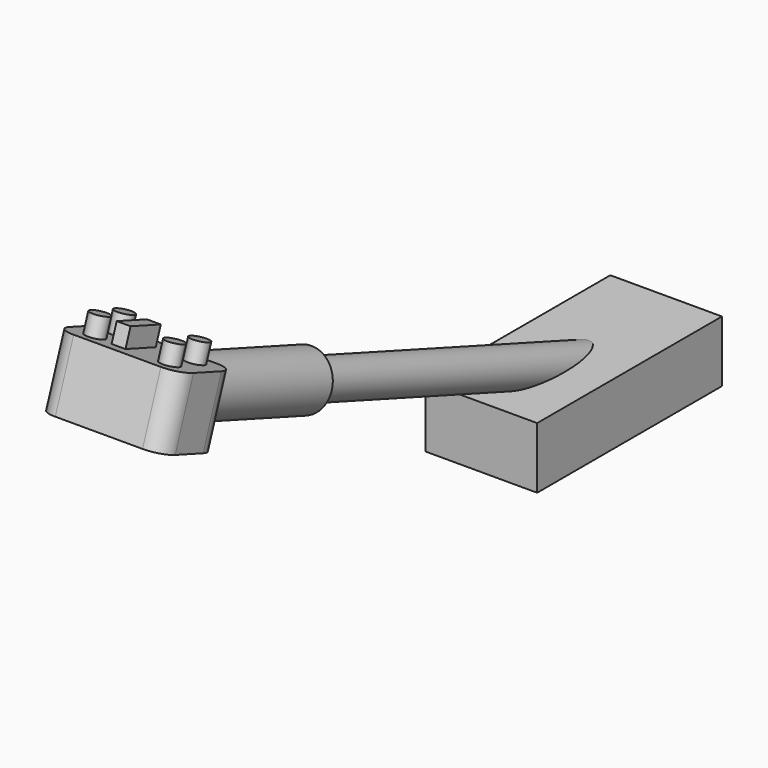
from build123d import *

# Parameters (mm, degrees)
F0_R      = 1
F1_DEPTH  = 20
F2_R      = 1.5
F3_DEPTH  = 10
F4_W      = 6.6888295239
F4_H      = 3.5976374056
F4_R      = 1.5
F5_DEPTH  = 4
F6_R      = 1
F7_R      = 0.5
F7_W      = 0.7456826279
F7_H      = 2.1624788642
F8_DEPTH  = 1
F9_ANGLE  = 20
F10_W     = 12.4137960374
F10_H     = 3.2974146307
F11_DEPTH = 3


with BuildPart() as f1:
    # F0 (on Front) → F1 (new body)
    with BuildSketch(Plane.XZ):
        Circle(F0_R)
    extrude(amount=-F1_DEPTH)


with BuildPart() as f3:
    # F2 (on Front) → F3 (new body)
    with BuildSketch(Plane.XZ):
        Circle(F2_R)
    extrude(amount=F3_DEPTH)

    # F4 (on face) → F5 (join)
    with BuildSketch(Plane.XZ.offset(10)):
        Rectangle(F4_W, F4_H)
        Circle(F4_R, mode=Mode.SUBTRACT)
        Circle(F4_R)
    extrude(amount=F5_DEPTH)

    # F6
    f6_edges = [f3.edges().sort_by_distance(p)[0] for p in [
        (-3.344415, -10, 0),
        (-3.344415, -14, 0),
        (3.344415, -14, 0),
        (3.344415, -10, 0),
    ]]
    fillet(f6_edges, radius=F6_R)

    # F7 (on face) → F8 (join)
    with BuildSketch(Plane.XY.offset(1.7988187028)):
        with Locations((1.9631572068, -11.0807977617)):
            Circle(F7_R)
        with Locations((2.0217990968, -12.9463616759)):
            Circle(F7_R)
        with Locations((-2.0416839093, -11.1294747762)):
            Circle(F7_R)
        with Locations((-0.5328413245, -12.1203102171)):
            Rectangle(F7_W, F7_H)
        with Locations((-2.0040236413, -12.9404356703)):
            Circle(F7_R)
    extrude(amount=F8_DEPTH)


with BuildPart() as f1_1:
    # F9: moved
    add(f1.part.rotate(Axis((0, -10, -1.7988187028), (-1, 0, 0)), F9_ANGLE))


with BuildPart() as f3_1:
    # F9: moved
    add(f3.part.rotate(Axis((0, -10, -1.7988187028), (-1, 0, 0)), F9_ANGLE))


with BuildPart() as f11:
    # F10 (on Right) → F11 (new body, symmetric)
    with BuildSketch(Plane.YZ):
        with Locations((18.1427896023, -11.0876401886)):
            Rectangle(F10_W, F10_H)
    extrude(amount=F11_DEPTH, both=True)


solid = Compound([f1_1.part, f3_1.part, f11.part])
